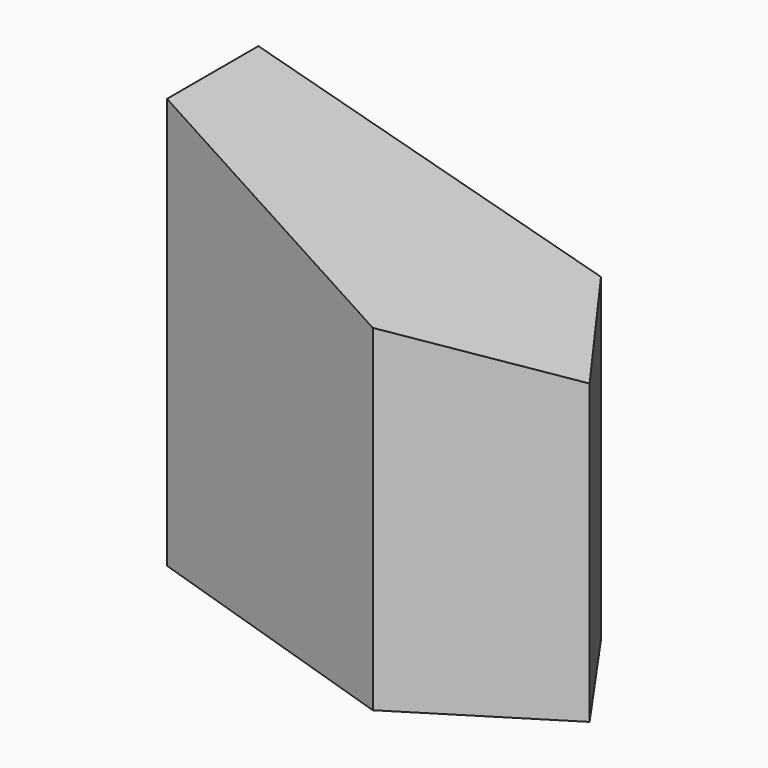
from build123d import *

# Parameters (mm, degrees)
F1_DEPTH = 228.6
F3_DEPTH = 114.3


with BuildPart() as f1:
    # F0 (on Top) → F1 (new body)
    with BuildSketch(Plane.XY):
        Polygon((80.380127, 0), (35.916949, 63.5), (-154.583051, 63.5), (-154.583051, 0), (0, -50.227078), align=None)
    extrude(amount=F1_DEPTH)

    # F2 (on Front) → F3 (cut, symmetric)
    with BuildSketch(Plane.XZ):
        Polygon((-154.583051, 289.720148), (-154.583051, 228.6), (111.744714, 157.23769), (111.744714, 289.720148), align=None)
    extrude(amount=F3_DEPTH, both=True, mode=Mode.SUBTRACT)


solid = f1.part
